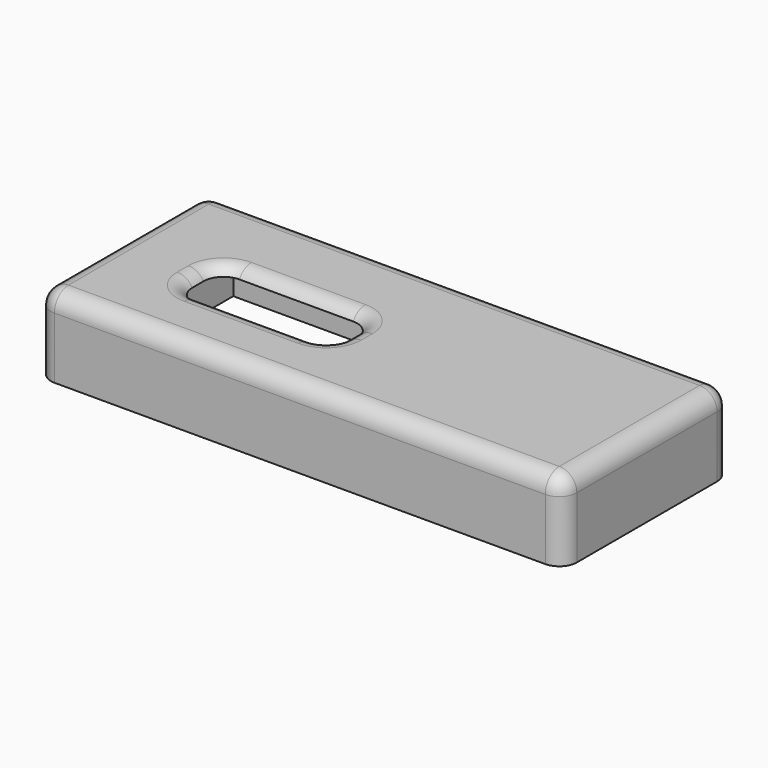
from build123d import *

# Parameters (mm, degrees)
F1_DEPTH = 4.5
F2_R     = 1
F4_DEPTH = 4
F5_W     = 12.5
F5_H     = 2.9783394848
F6_DEPTH = 3.1


with BuildPart() as f1:
    # F0 (on Top) → F1 (new body)
    with BuildSketch(Plane.XY):
        with BuildLine():
            ThreePointArc((0, 3.8761399509), (0.2928932188, 3.1690331698), (1, 2.8761399509))
            Line((1, 2.8761399509), (29, 2.8761399509))
            ThreePointArc((29, 2.8761399509), (29.7071067812, 3.1690331698), (30, 3.8761399509))
            Line((30, 3.8761399509), (30, 13.8761399509))
            ThreePointArc((30, 13.8761399509), (29.7071067812, 14.5832467321), (29, 14.8761399509))
            Line((29, 14.8761399509), (1, 14.8761399509))
            ThreePointArc((1, 14.8761399509), (0.2928932188, 14.5832467321), (0, 13.8761399509))
            Line((0, 13.8761399509), (0, 3.8761399509))
        make_face()
        with BuildLine():
            ThreePointArc((5, 8.6761399509), (5.2928932188, 9.3832467321), (6, 9.6761399509))
            Line((6, 9.6761399509), (12.5, 9.6761399509))
            ThreePointArc((12.5, 9.6761399509), (13.2071067812, 9.3832467321), (13.5, 8.6761399509))
            Line((13.5, 8.6761399509), (13.5, 7.8761399509))
            ThreePointArc((13.5, 7.8761399509), (13.2071067812, 7.1690331698), (12.5, 6.8761399509))
            Line((12.5, 6.8761399509), (6, 6.8761399509))
            ThreePointArc((6, 6.8761399509), (5.2928932188, 7.1690331698), (5, 7.8761399509))
            Line((5, 7.8761399509), (5, 8.6761399509))
        make_face(mode=Mode.SUBTRACT)
    extrude(amount=F1_DEPTH)

    # F2
    f2_edges = [f1.edges().sort_by_distance(p)[0] for p in [
        (0.292893, 3.169033, 4.5),
        (15, 2.87614, 4.5),
        (29.707107, 3.169033, 4.5),
        (30, 8.87614, 4.5),
        (29.707107, 14.583247, 4.5),
        (15, 14.87614, 4.5),
        (0.292893, 14.583247, 4.5),
        (0, 8.87614, 4.5),
        (5.292893, 9.383247, 4.5),
        (9.25, 9.67614, 4.5),
        (13.207107, 9.383247, 4.5),
        (13.5, 8.27614, 4.5),
        (13.207107, 7.169033, 4.5),
        (9.25, 6.87614, 4.5),
        (5.292893, 7.169033, 4.5),
        (5, 8.27614, 4.5),
    ]]
    fillet(f2_edges, radius=F2_R)

    # F3 (on Top) → F4 (cut)
    with BuildSketch(Plane.XY):
        Polygon((28, 3.3761399509), (28, 14.3761399509), (2, 14.3761399509), (2, 3.3761399509), (14.5, 3.3761399509), (27, 3.3761399509), align=None)
    extrude(amount=F4_DEPTH, mode=Mode.SUBTRACT)

    # F5 (on Top) → F6 (cut)
    with BuildSketch(Plane.XY):
        with Locations((21.25, 14.7778680548)):
            Rectangle(F5_W, F5_H)
    extrude(amount=F6_DEPTH, mode=Mode.SUBTRACT)


solid = f1.part
